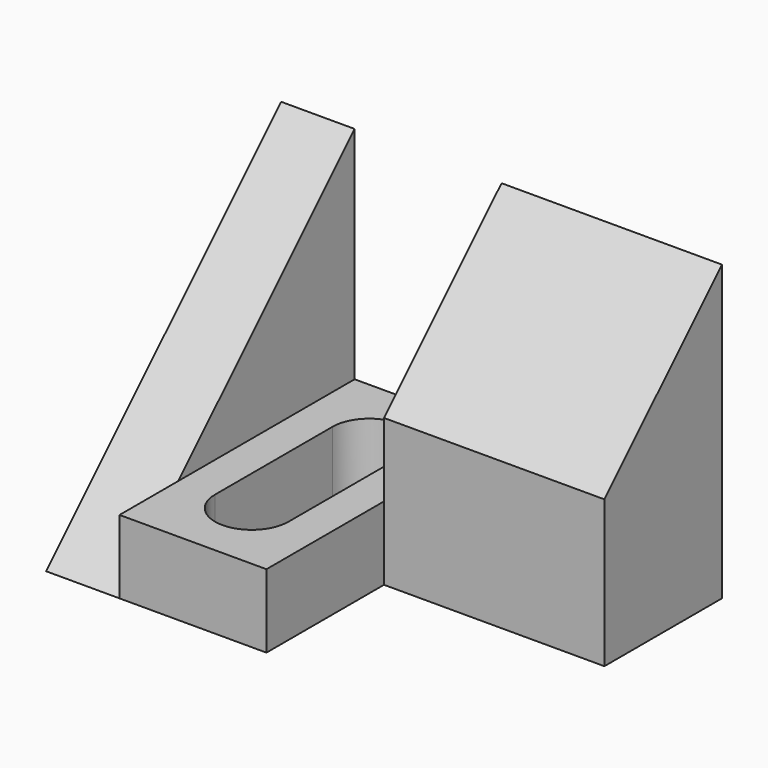
from build123d import *

# Parameters (mm, degrees)
F1_DEPTH = 19.05
F2_W     = 25.4
F2_H     = 6.35
F3_DEPTH = 12.7
F5_DEPTH = 6.35
F7_DEPTH = 6.351


with BuildPart() as f1:
    # F0 (on Right) → F1 (new body)
    with BuildSketch(Plane.YZ):
        Polygon((0, 12.7), (0, 0), (12.7, 0), (12.7, 25.4), align=None)
    extrude(amount=F1_DEPTH)

    # F2 (on face) → F3 (join)
    with BuildSketch(Plane(origin=(0, 0, 0), x_dir=(0, -1, 0), z_dir=(-1, 0, 0))):
        with Locations((0, 3.175)):
            Rectangle(F2_W, F2_H)
    extrude(amount=F3_DEPTH)

    # F4 (on face) → F5 (join)
    with BuildSketch(Plane(origin=(-12.7, 0, 0), x_dir=(0, -1, 0), z_dir=(-1, 0, 0))):
        Polygon((12.7, 0), (-12.7, 25.4), (-12.7, 0), align=None)
    extrude(amount=F5_DEPTH)

    # F6 (on face) → F7 (cut, through all)
    with BuildSketch(Plane.XY.offset(6.35)):
        with BuildLine():
            Line((-3.175, -6.35), (-3.175, 6.35))
            ThreePointArc((-3.175, 6.35), (-6.35, 9.525), (-9.525, 6.35))
            Line((-9.525, 6.35), (-9.525, -6.35))
            ThreePointArc((-9.525, -6.35), (-6.35, -9.525), (-3.175, -6.35))
        make_face()
    extrude(amount=-F7_DEPTH, mode=Mode.SUBTRACT)


solid = f1.part
